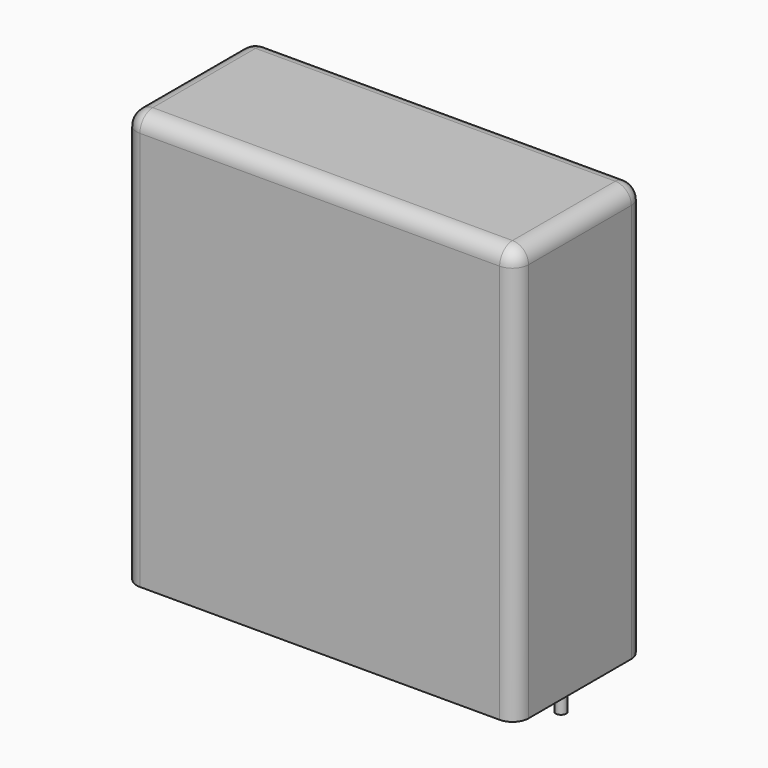
from build123d import *

# Parameters (mm, degrees)
SKETCH_W     = 41.5
SKETCH_H     = 17
PAD_DEPTH    = 44
FILLET_R     = 1.7
SKETCH001_R  = 0.55
PAD001_DEPTH = 3.2


with BuildPart() as fillet_body:
    # Sketch → Pad (new body)
    with BuildSketch(Plane.XY.offset(0.1)):
        with Locations((18.75, 0)):
            Rectangle(SKETCH_W, SKETCH_H)
    extrude(amount=PAD_DEPTH)

    # Fillet
    fillet_edges = [fillet_body.edges().sort_by_distance(p)[0] for p in [
        (-2, 0, 44.1),
        (-2, -8.5, 22.1),
        (18.75, -8.5, 44.1),
        (39.5, -8.5, 22.1),
        (39.5, 0, 44.1),
        (39.5, 8.5, 22.1),
        (18.75, 8.5, 44.1),
        (-2, 8.5, 22.1),
    ]]
    fillet(fillet_edges, radius=FILLET_R)


with BuildPart() as pad001:
    # Sketch001 → Pad001 (new body)
    with BuildSketch(Plane.XY.offset(0.5)):
        Circle(SKETCH001_R)
        with Locations((37.5, 0)):
            Circle(SKETCH001_R)
    extrude(amount=-PAD001_DEPTH)


solid = Compound([fillet_body.part, pad001.part])
